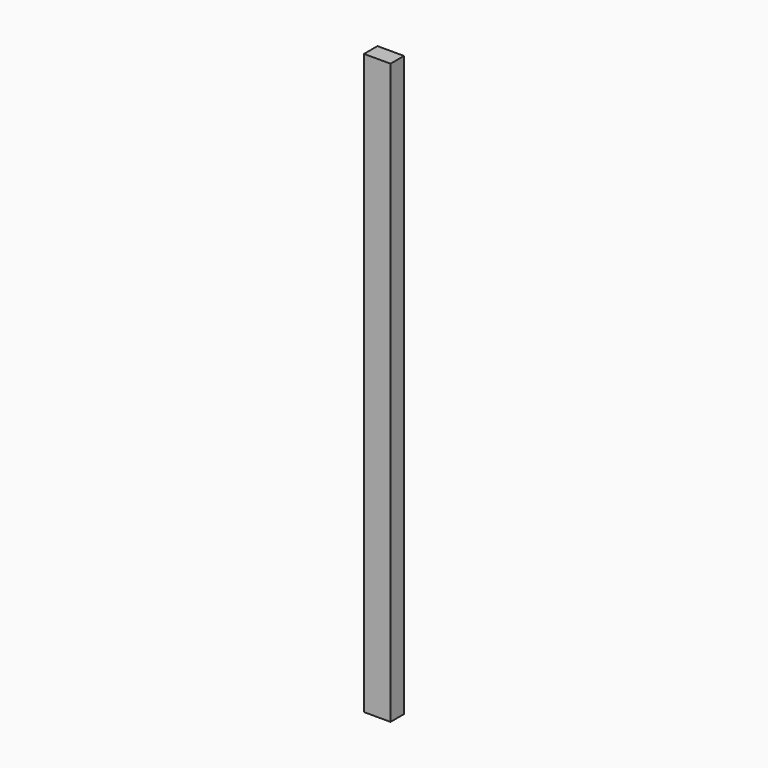
from build123d import *

# Parameters (mm, degrees)
F0_W     = 139.7
F0_H     = 88.9
F1_DEPTH = 1828.8
F2_DEPTH = 2438.4
F3_DEPTH = 3048


with BuildPart() as f1:
    # F0 (on Top) → F1 (new body)
    with BuildSketch(Plane.XY):
        with Locations((-78.028077, -26.804342)):
            Rectangle(F0_W, F0_H)
    extrude(amount=F1_DEPTH)


with BuildPart() as f2:
    # F0 (on Top) → F2 (new body)
    with BuildSketch(Plane.XY):
        with Locations((-78.028077, -26.804342)):
            Rectangle(F0_W, F0_H)
    extrude(amount=F2_DEPTH)


with BuildPart() as f3:
    # F0 (on Top) → F3 (new body)
    with BuildSketch(Plane.XY):
        with Locations((-78.028077, -26.804342)):
            Rectangle(F0_W, F0_H)
    extrude(amount=F3_DEPTH)


solid = Compound([f1.part, f2.part, f3.part])
